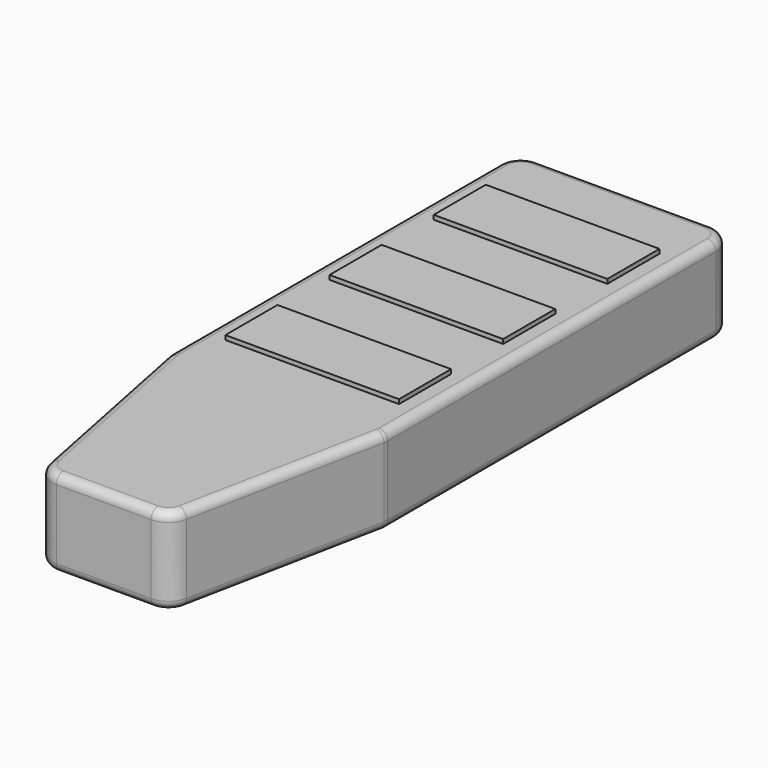
from build123d import *

# Parameters (mm, degrees)
F1_DEPTH = 20
F2_R     = 2
F3_W     = 40
F3_H     = 15
F4_DEPTH = 1


with BuildPart() as f1:
    # F0 (on Top) → F1 (new body)
    with BuildSketch(Plane.XY):
        with BuildLine():
            Line((20, 75), (-20, 75))
            ThreePointArc((-20, 75), (-23.535534, 73.535534), (-25, 70))
            Line((-25, 70), (-25, -24.504902))
            ThreePointArc((-25, -24.504902), (-24.975667, -24.997591), (-24.902903, -25.485483))
            Line((-24.902903, -25.485483), (-15.803884, -70.980581))
            ThreePointArc((-15.803884, -70.980581), (-14.070925, -73.866711), (-10.90098, -75))
            Line((-10.90098, -75), (10.90098, -75))
            ThreePointArc((10.90098, -75), (14.070925, -73.866711), (15.803884, -70.980581))
            Line((15.803884, -70.980581), (24.902903, -25.485483))
            ThreePointArc((24.902903, -25.485483), (24.975667, -24.997591), (25, -24.504902))
            Line((25, -24.504902), (25, 70))
            ThreePointArc((25, 70), (23.535534, 73.535534), (20, 75))
        make_face()
    extrude(amount=F1_DEPTH)

    # F2
    f2_edges = [f1.edges().sort_by_distance(p)[0] for p in [
        (-25, 22.747549, 20),
        (-20.353394, -48.233032, 0),
    ]]
    fillet(f2_edges, radius=F2_R)

    # F3 (on face) → F4 (join)
    with BuildSketch(Plane.XY.offset(20)):
        with Locations((0, 52.5)):
            Rectangle(F3_W, F3_H)
        with Locations((0, 22.5)):
            Rectangle(F3_W, F3_H)
        with Locations((0, -7.5)):
            Rectangle(F3_W, F3_H)
    extrude(amount=F4_DEPTH)


solid = f1.part
